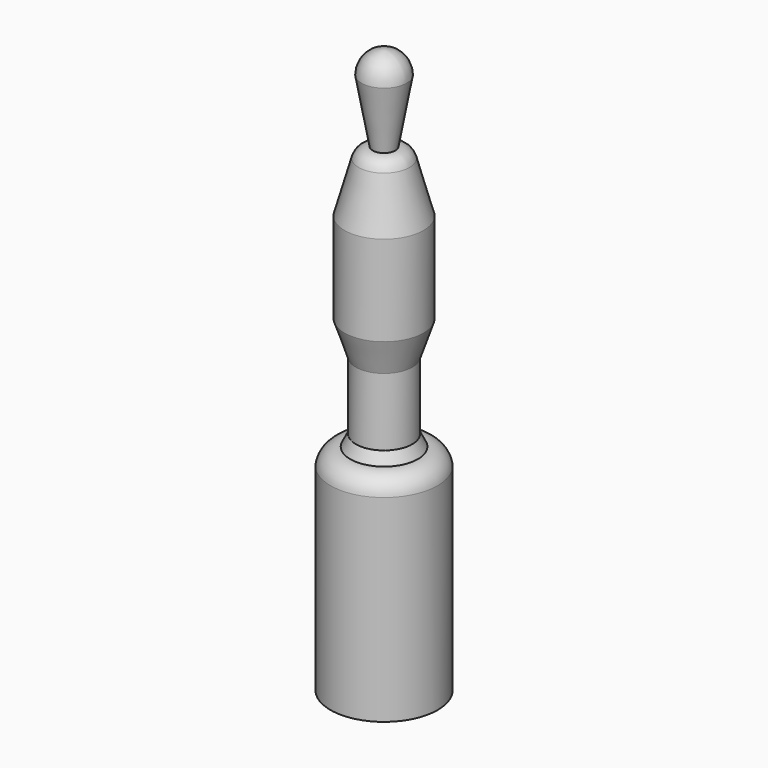
from build123d import *


with BuildPart() as f1:
    # F0 (on Front) → F1 (revolve)
    with BuildSketch(Plane.XZ):
        with BuildLine():
            Line((2, -15.170774), (4, -4))
            ThreePointArc((4, -4), (2.828427, -1.171573), (0, 0))
            Line((0, 0), (0, -100))
            Line((0, -100), (9.5, -100))
            Line((9.5, -100), (9.5, -65))
            ThreePointArc((9.5, -65), (8.313642, -62.842418), (6, -62))
            Line((6, -62), (5, -60))
            Line((5, -60), (5, -48))
            Line((5, -48), (7, -42))
            Line((7, -42), (7, -26))
            Line((7, -26), (4.5, -17))
            ThreePointArc((4.5, -17), (3.567458, -15.651518), (2, -15.170774))
        make_face()
    revolve(axis=Axis((0, 0, -50), (0, 0, 1)))


solid = f1.part
